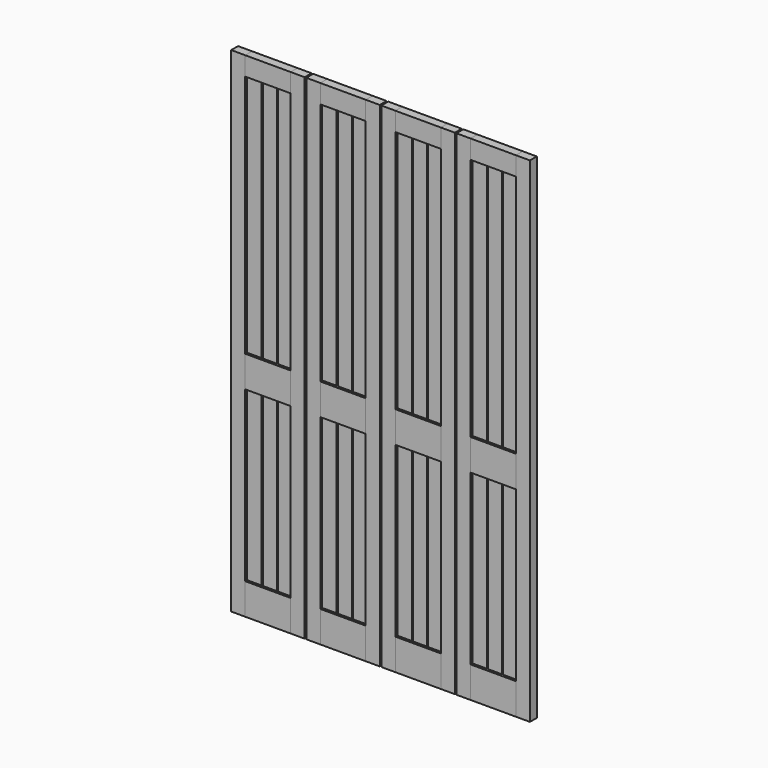
from build123d import *

# Parameters (mm, degrees)
F0_W      = 57.15
F0_H      = 2006.6
F1_DEPTH  = 34.925
F4_W      = 184.15
F4_H      = 76.2
F4_H_2    = 127
F5_DEPTH  = 34.925
F7_W      = 46.0375
F7_H      = 990.6
F8_DEPTH  = 15.875
F7_H_2    = 685.8
F11_DEPTH = 2006.601


with BuildPart() as f1:
    # F0 (on Front) → F1 (new body)
    with BuildSketch(Plane.XZ):
        with Locations((28.575, 1003.3)):
            Rectangle(F0_W, F0_H)
    extrude(amount=F1_DEPTH)


with BuildPart() as f3_1:
    # F3: instance of F1
    add(f1.part.mirror(Plane.YZ.offset(149.225)))


with BuildPart() as f5:
    # F4 (on Front) → F5 (new body)
    with BuildSketch(Plane.XZ):
        with Locations((149.225, 1968.5)):
            Rectangle(F4_W, F4_H)
        with Locations((149.225, 63.5)):
            Rectangle(F4_W, F4_H_2)
        with Locations((149.225, 876.3)):
            Rectangle(F4_W, F4_H_2)
    extrude(amount=F5_DEPTH)


with BuildPart() as f8:
    # F7 (on offset) → F8 (new body)
    with BuildSketch(Plane.XZ.offset(9.525)):
        with Locations((80.16875, 1435.1)):
            Rectangle(F7_W, F7_H)
        with Locations((126.20625, 1435.1)):
            Rectangle(F7_W, F7_H)
        with Locations((172.24375, 1435.1)):
            Rectangle(F7_W, F7_H)
        with Locations((218.28125, 1435.1)):
            Rectangle(F7_W, F7_H)
    extrude(amount=F8_DEPTH)


with BuildPart() as f8b:
    # F7 (on offset) → F8, piece 2 (new body)
    with BuildSketch(Plane.XZ.offset(9.525)):
        with Locations((80.4738314927, 469.9)):
            Rectangle(F7_W, F7_H_2)
        with Locations((126.5113314927, 469.9)):
            Rectangle(F7_W, F7_H_2)
        with Locations((172.5488314927, 469.9)):
            Rectangle(F7_W, F7_H_2)
        with Locations((218.5863314927, 469.9)):
            Rectangle(F7_W, F7_H_2)
    extrude(amount=F8_DEPTH)


with BuildPart() as f11_tool:
    # F10 (on Top) → F11 (new body, through all)
    with BuildSketch(Plane.XY):
        Polygon((120.9145833164, -9.525), (116.1520833164, -9.525), (118.5333333164, -13.6494459855), align=None)
        Polygon((182.2979164804, -9.525), (177.5354164804, -9.525), (179.9166664804, -13.6494459855), align=None)
        Polygon((120.9145833164, -25.4), (118.5333333164, -21.2755540145), (116.1520833164, -25.4), align=None)
        Polygon((182.2979164804, -25.4), (179.9166664804, -21.2755540145), (177.5354164804, -25.4), align=None)
    extrude(amount=F11_DEPTH)


with BuildPart() as f8_1:
    add(f8.part)

    # F11: cut by f11_tool
    add(f11_tool.part, mode=Mode.SUBTRACT)


with BuildPart() as f8b_1:
    add(f8b.part)

    # F11: cut by f11_tool
    add(f11_tool.part, mode=Mode.SUBTRACT)


with BuildPart() as f14_1:
    # F14: instance of F5
    add(f5.part.mirror(Plane.YZ.offset(301.625)))


with BuildPart() as f14_2:
    # F14: instance of F3_1
    add(f3_1.part.mirror(Plane.YZ.offset(301.625)))


with BuildPart() as f14_3:
    # F14: instance of F1
    add(f1.part.mirror(Plane.YZ.offset(301.625)))


with BuildPart() as f14_4:
    # F14: instance of F8b
    add(f8b_1.part.mirror(Plane.YZ.offset(301.625)))


with BuildPart() as f14_5:
    # F14: instance of F8
    add(f8_1.part.mirror(Plane.YZ.offset(301.625)))


with BuildPart() as f15_1:
    # F15: instance of F5
    add(f5.part.mirror(Plane.YZ.offset(606.425)))


with BuildPart() as f15_2:
    # F15: instance of F3_1
    add(f3_1.part.mirror(Plane.YZ.offset(606.425)))


with BuildPart() as f15_3:
    # F15: instance of F1
    add(f1.part.mirror(Plane.YZ.offset(606.425)))


with BuildPart() as f15_4:
    # F15: instance of F14_5
    add(f14_5.part.mirror(Plane.YZ.offset(606.425)))


with BuildPart() as f15_5:
    # F15: instance of F14_3
    add(f14_3.part.mirror(Plane.YZ.offset(606.425)))


with BuildPart() as f15_6:
    # F15: instance of F14_1
    add(f14_1.part.mirror(Plane.YZ.offset(606.425)))


with BuildPart() as f15_7:
    # F15: instance of F14_4
    add(f14_4.part.mirror(Plane.YZ.offset(606.425)))


with BuildPart() as f15_8:
    # F15: instance of F14_2
    add(f14_2.part.mirror(Plane.YZ.offset(606.425)))


with BuildPart() as f15_9:
    # F15: instance of F8b
    add(f8b_1.part.mirror(Plane.YZ.offset(606.425)))


with BuildPart() as f15_10:
    # F15: instance of F8
    add(f8_1.part.mirror(Plane.YZ.offset(606.425)))


solid = Compound([f1.part, f3_1.part, f5.part, f8_1.part, f8b_1.part, f14_1.part, f14_2.part, f14_3.part, f14_4.part, f14_5.part, f15_1.part, f15_2.part, f15_3.part, f15_4.part, f15_5.part, f15_6.part, f15_7.part, f15_8.part, f15_9.part, f15_10.part])
